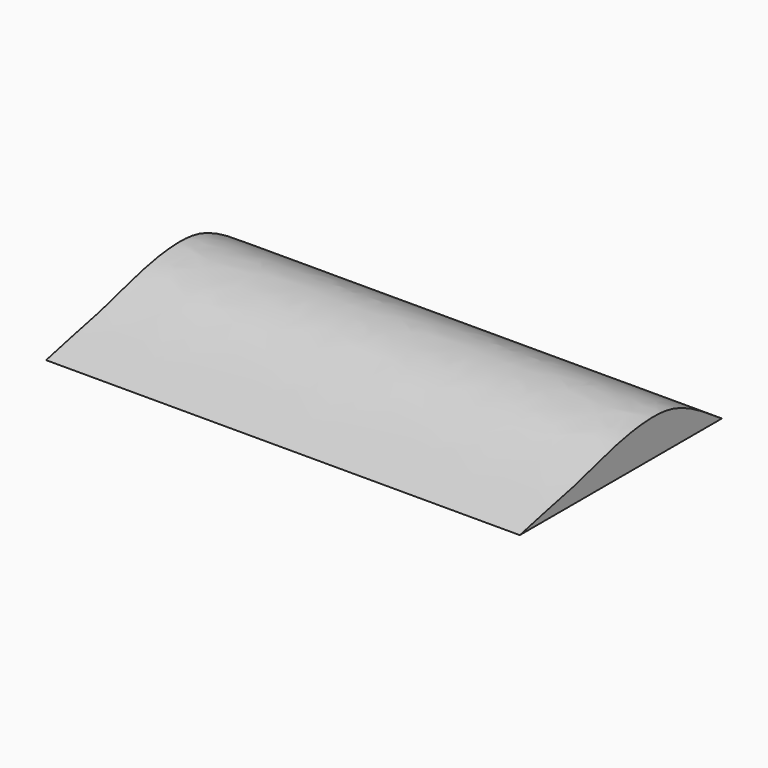
from build123d import *

# Parameters (mm, degrees)
F1_DEPTH = 2286


with BuildPart() as f1:
    # F0 (on Right) → F1 (new body)
    with BuildSketch(Plane.YZ):
        with BuildLine():
            Line((0, 0), (1219.2, 0))
            add(Edge.make_bspline(
                [(1219.2, 0), (1131.3567437792, 59.7148267989), (973.2987720927, 167.1608028419), (774.9036402017, 182.6483930103), (568.3177964868, 147.8546679936), (356.9395888019, 78.6953382211), (161.6220533881, 39.3432216543), (52.1136975755, 12.6858972025), (0, 0)],
                knots=[0, 0, 0, 0, 0.1973520288, 0.3550991017, 0.5196370423, 0.6914174048, 0.8531492878, 1, 1, 1, 1], degree=3))
        make_face()
    extrude(amount=F1_DEPTH)


solid = f1.part
